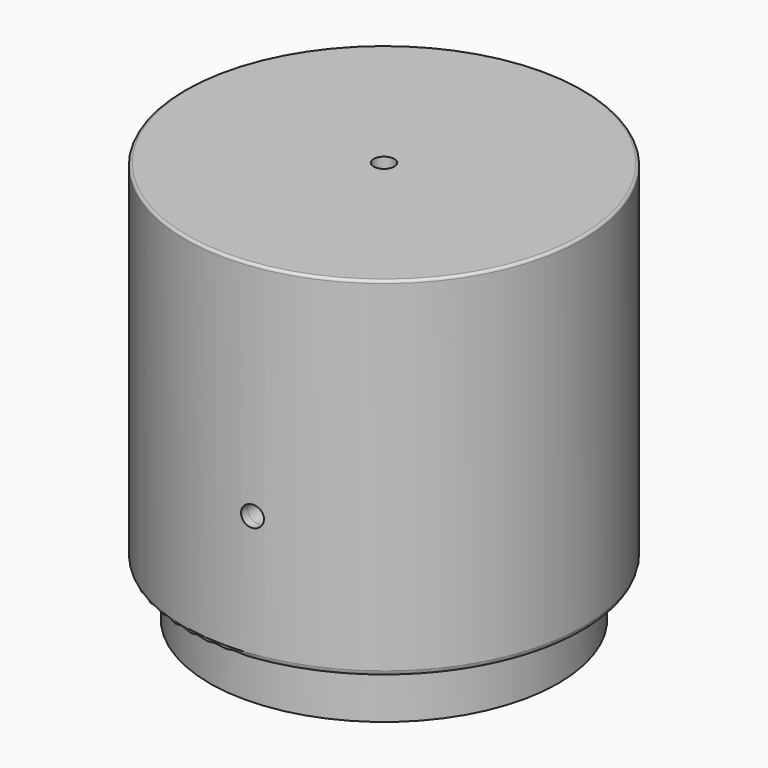
from build123d import *

# Parameters (mm, degrees)
F3_R     = 2.5
F4_DEPTH = 76.2


with BuildPart() as f2:
    # F0 (on Front) → F2 (revolve)
    with BuildSketch(Plane.XZ):
        with BuildLine():
            Line((-42, 11.43), (-42, 0))
            Line((-42, 0), (-40, 0))
            Line((-40, 0), (-40, 11.43))
            ThreePointArc((-40, 11.43), (-40.957761, 13.742239), (-43.27, 14.7))
            Line((-43.27, 14.7), (-46, 14.7))
            Line((-46, 14.7), (-46, 94.7))
            Line((-46, 94.7), (-4, 94.7))
            Line((-4, 94.7), (-4, 93.2))
            Line((-4, 93.2), (-4.4, 93.2))
            Line((-4.4, 93.2), (-4, 89.7))
            Line((-4, 89.7), (-4.4, 89.7))
            Line((-4.4, 89.7), (-4, 86.2))
            Line((-4, 86.2), (-2.5, 86.2))
            Line((-2.5, 86.2), (-2.5, 96.7))
            Line((-2.5, 96.7), (-47.365, 96.7))
            ThreePointArc((-47.365, 96.7), (-47.814013, 96.514013), (-48, 96.065))
            Line((-48, 96.065), (-48, 13.97))
            ThreePointArc((-48, 13.97), (-47.628026, 13.071974), (-46.73, 12.7))
            Line((-46.73, 12.7), (-43.27, 12.7))
            ThreePointArc((-43.27, 12.7), (-42.371974, 12.328026), (-42, 11.43))
        make_face()
    revolve(axis=Axis((0, 0, 51.843766), (0, 0, 1)))

    # F3 (on Front) → F4 (cut)
    with BuildSketch(Plane.XZ):
        with Locations((6.35, 43.18)):
            Circle(F3_R)
    extrude(amount=F4_DEPTH, mode=Mode.SUBTRACT)

    # F7 (on offset) → F8 (revolve)
    with BuildSketch(Plane.YZ.offset(6.35)):
        Polygon((-42.69981, 47.18), (-46.19981, 47.18), (-46.19981, 45.68), (-35.69981, 45.68), (-35.69981, 47.18), (-39.19981, 47.18), align=None)
        Polygon((-42.69981, 47.58), (-42.69981, 47.18), (-39.19981, 47.18), align=None)
        Polygon((-39.19981, 47.58), (-39.19981, 47.18), (-35.69981, 47.18), align=None)
    revolve(axis=Axis((6.35, -16.508139, 43.18), (0, 1, 0)))


solid = f2.part
